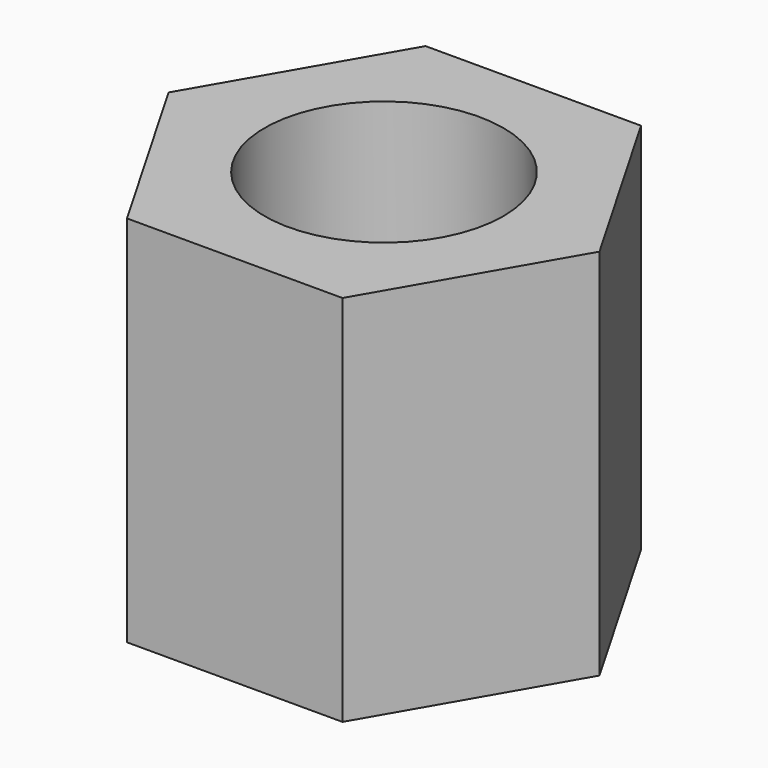
from build123d import *

# Parameters (mm, degrees)
F1_DEPTH = 5
F2_COUNT = 6
F2_ANGLE = 300
F3_R     = 1.6
F4_DEPTH = 5.001


with BuildPart() as f1:
    # F0 (on Top) → F1 (new body)
    with BuildSketch(Plane.XY):
        Polygon((-1.443376, 2.5), (0, 0), (1.443376, 2.5), align=None)
    extrude(amount=F1_DEPTH)

    # F2: F1 ×6 about axis
    f2_axis = Axis((0, 0, 2.5), (0, 0, 1))


with BuildPart() as f1_1:
    add(f1.part)
    for i in range(1, F2_COUNT):
        add(f1.part.rotate(f2_axis, i * F2_ANGLE / (F2_COUNT - 1)))

    # F3 (on face) → F4 (cut, through all)
    with BuildSketch(Plane.XY.offset(5)):
        Circle(F3_R)
    extrude(amount=-F4_DEPTH, mode=Mode.SUBTRACT)


solid = f1_1.part
